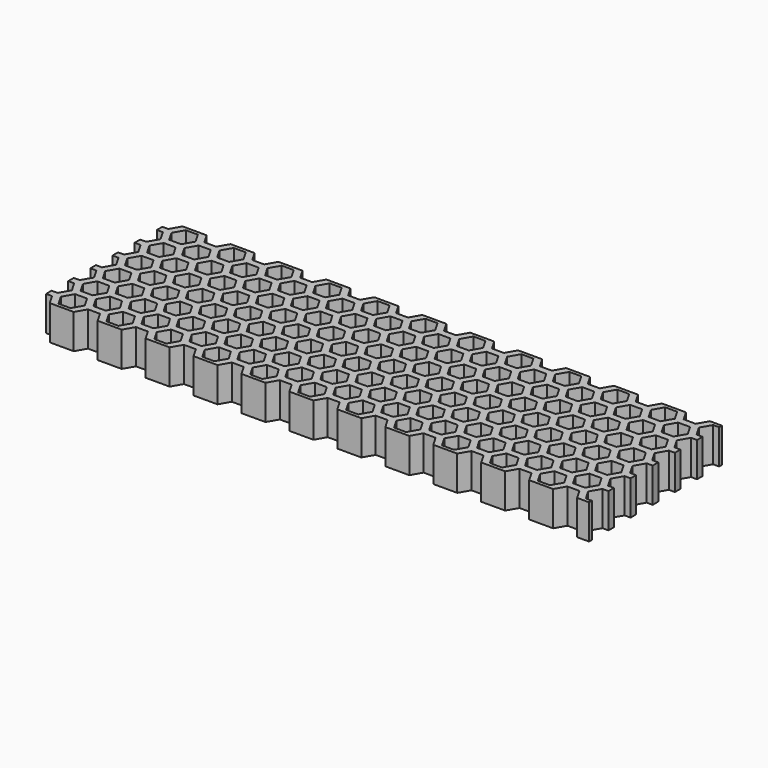
from build123d import *

# Parameters (mm, degrees)
F0_W     = 461.377629
F0_H     = 145
F1_DEPTH = 25
F3_DEPTH = 25


with BuildPart() as f1:
    # F0 (on Top) → F1 (new body)
    with BuildSketch(Plane.XY):
        with Locations((239.03143, 60)):
            Rectangle(F0_W, F0_H)
        Polygon((30.309873, -7.5), (25.979746, 0), (30.309873, 7.5), (38.970127, 7.5), (43.300254, 0), (38.970127, -7.5), align=None, mode=Mode.SUBTRACT)
        Polygon((64.949873, -7.5), (60.619746, 0), (64.949873, 7.5), (73.610127, 7.5), (77.940254, 0), (73.610127, -7.5), align=None, mode=Mode.SUBTRACT)
        Polygon((99.589873, -7.5), (95.259746, 0), (99.589873, 7.5), (108.250127, 7.5), (112.580254, 0), (108.250127, -7.5), align=None, mode=Mode.SUBTRACT)
        Polygon((47.630382, 17.5), (56.290636, 17.5), (60.620763, 10), (56.290636, 2.5), (47.630382, 2.5), (43.300255, 10), align=None, mode=Mode.SUBTRACT)
        Polygon((25.980255, 20), (30.310382, 27.5), (38.970636, 27.5), (43.300763, 20), (38.970636, 12.5), (30.310382, 12.5), align=None, mode=Mode.SUBTRACT)
        Polygon((82.270382, 17.5), (90.930636, 17.5), (95.260763, 10), (90.930636, 2.5), (82.270382, 2.5), (77.940255, 10), align=None, mode=Mode.SUBTRACT)
        Polygon((116.910382, 17.5), (125.570636, 17.5), (129.900763, 10), (125.570636, 2.5), (116.910382, 2.5), (112.580255, 10), align=None, mode=Mode.SUBTRACT)
        Polygon((73.610636, 27.5), (77.940763, 20), (73.610636, 12.5), (64.950382, 12.5), (60.620255, 20), (64.950382, 27.5), align=None, mode=Mode.SUBTRACT)
        Polygon((108.250636, 27.5), (112.580763, 20), (108.250636, 12.5), (99.590382, 12.5), (95.260255, 20), (99.590382, 27.5), align=None, mode=Mode.SUBTRACT)
        Polygon((134.229873, -7.5), (129.899746, 0), (134.229873, 7.5), (142.890127, 7.5), (147.220254, 0), (142.890127, -7.5), align=None, mode=Mode.SUBTRACT)
        Polygon((168.869873, -7.5), (164.539746, 0), (168.869873, 7.5), (177.530127, 7.5), (181.860254, 0), (177.530127, -7.5), align=None, mode=Mode.SUBTRACT)
        Polygon((203.509873, -7.5), (199.179746, 0), (203.509873, 7.5), (212.170127, 7.5), (216.500254, 0), (212.170127, -7.5), align=None, mode=Mode.SUBTRACT)
        Polygon((151.550382, 17.5), (160.210636, 17.5), (164.540763, 10), (160.210636, 2.5), (151.550382, 2.5), (147.220255, 10), align=None, mode=Mode.SUBTRACT)
        Polygon((142.890636, 27.5), (147.220763, 20), (142.890636, 12.5), (134.230382, 12.5), (129.900255, 20), (134.230382, 27.5), align=None, mode=Mode.SUBTRACT)
        Polygon((177.530636, 27.5), (181.860763, 20), (177.530636, 12.5), (168.870382, 12.5), (164.540255, 20), (168.870382, 27.5), align=None, mode=Mode.SUBTRACT)
        Polygon((186.190382, 17.5), (194.850636, 17.5), (199.180763, 10), (194.850636, 2.5), (186.190382, 2.5), (181.860255, 10), align=None, mode=Mode.SUBTRACT)
        Polygon((220.830382, 17.5), (229.490636, 17.5), (233.820763, 10), (229.490636, 2.5), (220.830382, 2.5), (216.500255, 10), align=None, mode=Mode.SUBTRACT)
        Polygon((212.170636, 27.5), (216.500763, 20), (212.170636, 12.5), (203.510382, 12.5), (199.180255, 20), (203.510382, 27.5), align=None, mode=Mode.SUBTRACT)
        Polygon((47.630382, 22.5), (43.300255, 30), (47.630382, 37.5), (56.290636, 37.5), (60.620763, 30), (56.290636, 22.5), align=None, mode=Mode.SUBTRACT)
        Polygon((30.309873, 32.5), (25.979746, 40), (30.309873, 47.5), (38.970127, 47.5), (43.300254, 40), (38.970127, 32.5), align=None, mode=Mode.SUBTRACT)
        Polygon((82.270382, 22.5), (77.940255, 30), (82.270382, 37.5), (90.930636, 37.5), (95.260763, 30), (90.930636, 22.5), align=None, mode=Mode.SUBTRACT)
        Polygon((116.910382, 22.5), (112.580255, 30), (116.910382, 37.5), (125.570636, 37.5), (129.900763, 30), (125.570636, 22.5), align=None, mode=Mode.SUBTRACT)
        Polygon((64.949873, 32.5), (60.619746, 40), (64.949873, 47.5), (73.610127, 47.5), (77.940254, 40), (73.610127, 32.5), align=None, mode=Mode.SUBTRACT)
        Polygon((99.589873, 32.5), (95.259746, 40), (99.589873, 47.5), (108.250127, 47.5), (112.580254, 40), (108.250127, 32.5), align=None, mode=Mode.SUBTRACT)
        Polygon((47.630382, 57.5), (56.290636, 57.5), (60.620763, 50), (56.290636, 42.5), (47.630382, 42.5), (43.300255, 50), align=None, mode=Mode.SUBTRACT)
        Polygon((82.270382, 57.5), (90.930636, 57.5), (95.260763, 50), (90.930636, 42.5), (82.270382, 42.5), (77.940255, 50), align=None, mode=Mode.SUBTRACT)
        Polygon((116.910382, 57.5), (125.570636, 57.5), (129.900763, 50), (125.570636, 42.5), (116.910382, 42.5), (112.580255, 50), align=None, mode=Mode.SUBTRACT)
        Polygon((151.550382, 22.5), (147.220255, 30), (151.550382, 37.5), (160.210636, 37.5), (164.540763, 30), (160.210636, 22.5), align=None, mode=Mode.SUBTRACT)
        Polygon((134.229873, 32.5), (129.899746, 40), (134.229873, 47.5), (142.890127, 47.5), (147.220254, 40), (142.890127, 32.5), align=None, mode=Mode.SUBTRACT)
        Polygon((168.869873, 32.5), (164.539746, 40), (168.869873, 47.5), (177.530127, 47.5), (181.860254, 40), (177.530127, 32.5), align=None, mode=Mode.SUBTRACT)
        Polygon((186.190382, 22.5), (181.860255, 30), (186.190382, 37.5), (194.850636, 37.5), (199.180763, 30), (194.850636, 22.5), align=None, mode=Mode.SUBTRACT)
        Polygon((220.830382, 22.5), (216.500255, 30), (220.830382, 37.5), (229.490636, 37.5), (233.820763, 30), (229.490636, 22.5), align=None, mode=Mode.SUBTRACT)
        Polygon((203.509873, 32.5), (199.179746, 40), (203.509873, 47.5), (212.170127, 47.5), (216.500254, 40), (212.170127, 32.5), align=None, mode=Mode.SUBTRACT)
        Polygon((151.550382, 57.5), (160.210636, 57.5), (164.540763, 50), (160.210636, 42.5), (151.550382, 42.5), (147.220255, 50), align=None, mode=Mode.SUBTRACT)
        Polygon((186.190382, 57.5), (194.850636, 57.5), (199.180763, 50), (194.850636, 42.5), (186.190382, 42.5), (181.860255, 50), align=None, mode=Mode.SUBTRACT)
        Polygon((220.830382, 57.5), (229.490636, 57.5), (233.820763, 50), (229.490636, 42.5), (220.830382, 42.5), (216.500255, 50), align=None, mode=Mode.SUBTRACT)
        Polygon((238.149873, -7.5), (233.819746, 0), (238.149873, 7.5), (246.810127, 7.5), (251.140254, 0), (246.810127, -7.5), align=None, mode=Mode.SUBTRACT)
        Polygon((272.789873, -7.5), (268.459746, 0), (272.789873, 7.5), (281.450127, 7.5), (285.780254, 0), (281.450127, -7.5), align=None, mode=Mode.SUBTRACT)
        Polygon((307.429873, -7.5), (303.099746, 0), (307.429873, 7.5), (316.090127, 7.5), (320.420254, 0), (316.090127, -7.5), align=None, mode=Mode.SUBTRACT)
        Polygon((342.069873, -7.5), (337.739746, 0), (342.069873, 7.5), (350.730127, 7.5), (355.060254, 0), (350.730127, -7.5), align=None, mode=Mode.SUBTRACT)
        Polygon((255.470382, 17.5), (264.130636, 17.5), (268.460763, 10), (264.130636, 2.5), (255.470382, 2.5), (251.140255, 10), align=None, mode=Mode.SUBTRACT)
        Polygon((290.110382, 17.5), (298.770636, 17.5), (303.100763, 10), (298.770636, 2.5), (290.110382, 2.5), (285.780255, 10), align=None, mode=Mode.SUBTRACT)
        Polygon((246.810636, 27.5), (251.140763, 20), (246.810636, 12.5), (238.150382, 12.5), (233.820255, 20), (238.150382, 27.5), align=None, mode=Mode.SUBTRACT)
        Polygon((281.450636, 27.5), (285.780763, 20), (281.450636, 12.5), (272.790382, 12.5), (268.460255, 20), (272.790382, 27.5), align=None, mode=Mode.SUBTRACT)
        Polygon((324.750382, 17.5), (333.410636, 17.5), (337.740763, 10), (333.410636, 2.5), (324.750382, 2.5), (320.420255, 10), align=None, mode=Mode.SUBTRACT)
        Polygon((316.090636, 27.5), (320.420763, 20), (316.090636, 12.5), (307.430382, 12.5), (303.100255, 20), (307.430382, 27.5), align=None, mode=Mode.SUBTRACT)
        Polygon((350.730636, 27.5), (355.060763, 20), (350.730636, 12.5), (342.070382, 12.5), (337.740255, 20), (342.070382, 27.5), align=None, mode=Mode.SUBTRACT)
        Polygon((376.709873, -7.5), (372.379746, 0), (376.709873, 7.5), (385.370127, 7.5), (389.700254, 0), (385.370127, -7.5), align=None, mode=Mode.SUBTRACT)
        Polygon((411.349873, 7.5), (420.010127, 7.5), (424.340254, 0), (420.010127, -7.5), (411.349873, -7.5), (407.019746, 0), align=None, mode=Mode.SUBTRACT)
        Polygon((359.390382, 17.5), (368.050636, 17.5), (372.380763, 10), (368.050636, 2.5), (359.390382, 2.5), (355.060255, 10), align=None, mode=Mode.SUBTRACT)
        Polygon((394.030382, 17.5), (402.690636, 17.5), (407.020763, 10), (402.690636, 2.5), (394.030382, 2.5), (389.700255, 10), align=None, mode=Mode.SUBTRACT)
        Polygon((385.370636, 27.5), (389.700763, 20), (385.370636, 12.5), (376.710382, 12.5), (372.380255, 20), (376.710382, 27.5), align=None, mode=Mode.SUBTRACT)
        Polygon((437.330636, 17.5), (441.660763, 10), (437.330636, 2.5), (428.670382, 2.5), (424.340255, 10), (428.670382, 17.5), align=None, mode=Mode.SUBTRACT)
        Polygon((424.340763, 20), (420.010636, 12.5), (411.350382, 12.5), (407.020255, 20), (411.350382, 27.5), (420.010636, 27.5), align=None, mode=Mode.SUBTRACT)
        Polygon((255.470382, 22.5), (251.140255, 30), (255.470382, 37.5), (264.130636, 37.5), (268.460763, 30), (264.130636, 22.5), align=None, mode=Mode.SUBTRACT)
        Polygon((290.110382, 22.5), (285.780255, 30), (290.110382, 37.5), (298.770636, 37.5), (303.100763, 30), (298.770636, 22.5), align=None, mode=Mode.SUBTRACT)
        Polygon((238.149873, 32.5), (233.819746, 40), (238.149873, 47.5), (246.810127, 47.5), (251.140254, 40), (246.810127, 32.5), align=None, mode=Mode.SUBTRACT)
        Polygon((272.789873, 32.5), (268.459746, 40), (272.789873, 47.5), (281.450127, 47.5), (285.780254, 40), (281.450127, 32.5), align=None, mode=Mode.SUBTRACT)
        Polygon((324.750382, 22.5), (320.420255, 30), (324.750382, 37.5), (333.410636, 37.5), (337.740763, 30), (333.410636, 22.5), align=None, mode=Mode.SUBTRACT)
        Polygon((307.429873, 32.5), (303.099746, 40), (307.429873, 47.5), (316.090127, 47.5), (320.420254, 40), (316.090127, 32.5), align=None, mode=Mode.SUBTRACT)
        Polygon((342.069873, 32.5), (337.739746, 40), (342.069873, 47.5), (350.730127, 47.5), (355.060254, 40), (350.730127, 32.5), align=None, mode=Mode.SUBTRACT)
        Polygon((255.470382, 57.5), (264.130636, 57.5), (268.460763, 50), (264.130636, 42.5), (255.470382, 42.5), (251.140255, 50), align=None, mode=Mode.SUBTRACT)
        Polygon((290.110382, 57.5), (298.770636, 57.5), (303.100763, 50), (298.770636, 42.5), (290.110382, 42.5), (285.780255, 50), align=None, mode=Mode.SUBTRACT)
        Polygon((324.750382, 57.5), (333.410636, 57.5), (337.740763, 50), (333.410636, 42.5), (324.750382, 42.5), (320.420255, 50), align=None, mode=Mode.SUBTRACT)
        Polygon((359.390382, 22.5), (355.060255, 30), (359.390382, 37.5), (368.050636, 37.5), (372.380763, 30), (368.050636, 22.5), align=None, mode=Mode.SUBTRACT)
        Polygon((394.030382, 22.5), (389.700255, 30), (394.030382, 37.5), (402.690636, 37.5), (407.020763, 30), (402.690636, 22.5), align=None, mode=Mode.SUBTRACT)
        Polygon((376.709873, 32.5), (372.379746, 40), (376.709873, 47.5), (385.370127, 47.5), (389.700254, 40), (385.370127, 32.5), align=None, mode=Mode.SUBTRACT)
        Polygon((441.660763, 30), (437.330636, 22.5), (428.670382, 22.5), (424.340255, 30), (428.670382, 37.5), (437.330636, 37.5), align=None, mode=Mode.SUBTRACT)
        Polygon((424.340254, 40), (420.010127, 32.5), (411.349873, 32.5), (407.019746, 40), (411.349873, 47.5), (420.010127, 47.5), align=None, mode=Mode.SUBTRACT)
        Polygon((359.390382, 57.5), (368.050636, 57.5), (372.380763, 50), (368.050636, 42.5), (359.390382, 42.5), (355.060255, 50), align=None, mode=Mode.SUBTRACT)
        Polygon((394.030382, 57.5), (402.690636, 57.5), (407.020763, 50), (402.690636, 42.5), (394.030382, 42.5), (389.700255, 50), align=None, mode=Mode.SUBTRACT)
        Polygon((428.670382, 57.5), (437.330636, 57.5), (441.660763, 50), (437.330636, 42.5), (428.670382, 42.5), (424.340255, 50), align=None, mode=Mode.SUBTRACT)
        Polygon((38.970636, 67.5), (43.300763, 60), (38.970636, 52.5), (30.310382, 52.5), (25.980255, 60), (30.310382, 67.5), align=None, mode=Mode.SUBTRACT)
        Polygon((47.630382, 62.5), (43.300255, 70), (47.630382, 77.5), (56.290636, 77.5), (60.620763, 70), (56.290636, 62.5), align=None, mode=Mode.SUBTRACT)
        Polygon((73.610636, 67.5), (77.940763, 60), (73.610636, 52.5), (64.950382, 52.5), (60.620255, 60), (64.950382, 67.5), align=None, mode=Mode.SUBTRACT)
        Polygon((108.250636, 67.5), (112.580763, 60), (108.250636, 52.5), (99.590382, 52.5), (95.260255, 60), (99.590382, 67.5), align=None, mode=Mode.SUBTRACT)
        Polygon((82.270382, 62.5), (77.940255, 70), (82.270382, 77.5), (90.930636, 77.5), (95.260763, 70), (90.930636, 62.5), align=None, mode=Mode.SUBTRACT)
        Polygon((116.910382, 62.5), (112.580255, 70), (116.910382, 77.5), (125.570636, 77.5), (129.900763, 70), (125.570636, 62.5), align=None, mode=Mode.SUBTRACT)
        Polygon((30.309873, 72.5), (25.979746, 80), (30.309873, 87.5), (38.970127, 87.5), (43.300254, 80), (38.970127, 72.5), align=None, mode=Mode.SUBTRACT)
        Polygon((47.630382, 97.5), (56.290636, 97.5), (60.620763, 90), (56.290636, 82.5), (47.630382, 82.5), (43.300255, 90), align=None, mode=Mode.SUBTRACT)
        Polygon((64.949873, 72.5), (60.619746, 80), (64.949873, 87.5), (73.610127, 87.5), (77.940254, 80), (73.610127, 72.5), align=None, mode=Mode.SUBTRACT)
        Polygon((99.589873, 72.5), (95.259746, 80), (99.589873, 87.5), (108.250127, 87.5), (112.580254, 80), (108.250127, 72.5), align=None, mode=Mode.SUBTRACT)
        Polygon((82.270382, 97.5), (90.930636, 97.5), (95.260763, 90), (90.930636, 82.5), (82.270382, 82.5), (77.940255, 90), align=None, mode=Mode.SUBTRACT)
        Polygon((116.910382, 97.5), (125.570636, 97.5), (129.900763, 90), (125.570636, 82.5), (116.910382, 82.5), (112.580255, 90), align=None, mode=Mode.SUBTRACT)
        Polygon((142.890636, 67.5), (147.220763, 60), (142.890636, 52.5), (134.230382, 52.5), (129.900255, 60), (134.230382, 67.5), align=None, mode=Mode.SUBTRACT)
        Polygon((177.530636, 67.5), (181.860763, 60), (177.530636, 52.5), (168.870382, 52.5), (164.540255, 60), (168.870382, 67.5), align=None, mode=Mode.SUBTRACT)
        Polygon((151.550382, 62.5), (147.220255, 70), (151.550382, 77.5), (160.210636, 77.5), (164.540763, 70), (160.210636, 62.5), align=None, mode=Mode.SUBTRACT)
        Polygon((212.170636, 67.5), (216.500763, 60), (212.170636, 52.5), (203.510382, 52.5), (199.180255, 60), (203.510382, 67.5), align=None, mode=Mode.SUBTRACT)
        Polygon((186.190382, 62.5), (181.860255, 70), (186.190382, 77.5), (194.850636, 77.5), (199.180763, 70), (194.850636, 62.5), align=None, mode=Mode.SUBTRACT)
        Polygon((220.830382, 62.5), (216.500255, 70), (220.830382, 77.5), (229.490636, 77.5), (233.820763, 70), (229.490636, 62.5), align=None, mode=Mode.SUBTRACT)
        Polygon((134.229873, 72.5), (129.899746, 80), (134.229873, 87.5), (142.890127, 87.5), (147.220254, 80), (142.890127, 72.5), align=None, mode=Mode.SUBTRACT)
        Polygon((168.869873, 72.5), (164.539746, 80), (168.869873, 87.5), (177.530127, 87.5), (181.860254, 80), (177.530127, 72.5), align=None, mode=Mode.SUBTRACT)
        Polygon((151.550382, 97.5), (160.210636, 97.5), (164.540763, 90), (160.210636, 82.5), (151.550382, 82.5), (147.220255, 90), align=None, mode=Mode.SUBTRACT)
        Polygon((203.509873, 72.5), (199.179746, 80), (203.509873, 87.5), (212.170127, 87.5), (216.500254, 80), (212.170127, 72.5), align=None, mode=Mode.SUBTRACT)
        Polygon((186.190382, 97.5), (194.850636, 97.5), (199.180763, 90), (194.850636, 82.5), (186.190382, 82.5), (181.860255, 90), align=None, mode=Mode.SUBTRACT)
        Polygon((220.830382, 97.5), (229.490636, 97.5), (233.820763, 90), (229.490636, 82.5), (220.830382, 82.5), (216.500255, 90), align=None, mode=Mode.SUBTRACT)
        Polygon((38.970636, 107.5), (43.300763, 100), (38.970636, 92.5), (30.310382, 92.5), (25.980255, 100), (30.310382, 107.5), align=None, mode=Mode.SUBTRACT)
        Polygon((47.630382, 102.5), (43.300255, 110), (47.630382, 117.5), (56.290636, 117.5), (60.620763, 110), (56.290636, 102.5), align=None, mode=Mode.SUBTRACT)
        Polygon((73.610636, 107.5), (77.940763, 100), (73.610636, 92.5), (64.950382, 92.5), (60.620255, 100), (64.950382, 107.5), align=None, mode=Mode.SUBTRACT)
        Polygon((108.250636, 107.5), (112.580763, 100), (108.250636, 92.5), (99.590382, 92.5), (95.260255, 100), (99.590382, 107.5), align=None, mode=Mode.SUBTRACT)
        Polygon((82.270382, 102.5), (77.940255, 110), (82.270382, 117.5), (90.930636, 117.5), (95.260763, 110), (90.930636, 102.5), align=None, mode=Mode.SUBTRACT)
        Polygon((116.910382, 102.5), (112.580255, 110), (116.910382, 117.5), (125.570636, 117.5), (129.900763, 110), (125.570636, 102.5), align=None, mode=Mode.SUBTRACT)
        Polygon((30.309873, 112.5), (25.979746, 120), (30.309873, 127.5), (38.970127, 127.5), (43.300254, 120), (38.970127, 112.5), align=None, mode=Mode.SUBTRACT)
        Polygon((64.949873, 112.5), (60.619746, 120), (64.949873, 127.5), (73.610127, 127.5), (77.940254, 120), (73.610127, 112.5), align=None, mode=Mode.SUBTRACT)
        Polygon((99.589873, 112.5), (95.259746, 120), (99.589873, 127.5), (108.250127, 127.5), (112.580254, 120), (108.250127, 112.5), align=None, mode=Mode.SUBTRACT)
        Polygon((142.890636, 107.5), (147.220763, 100), (142.890636, 92.5), (134.230382, 92.5), (129.900255, 100), (134.230382, 107.5), align=None, mode=Mode.SUBTRACT)
        Polygon((177.530636, 107.5), (181.860763, 100), (177.530636, 92.5), (168.870382, 92.5), (164.540255, 100), (168.870382, 107.5), align=None, mode=Mode.SUBTRACT)
        Polygon((151.550382, 102.5), (147.220255, 110), (151.550382, 117.5), (160.210636, 117.5), (164.540763, 110), (160.210636, 102.5), align=None, mode=Mode.SUBTRACT)
        Polygon((212.170636, 107.5), (216.500763, 100), (212.170636, 92.5), (203.510382, 92.5), (199.180255, 100), (203.510382, 107.5), align=None, mode=Mode.SUBTRACT)
        Polygon((186.190382, 102.5), (181.860255, 110), (186.190382, 117.5), (194.850636, 117.5), (199.180763, 110), (194.850636, 102.5), align=None, mode=Mode.SUBTRACT)
        Polygon((220.830382, 102.5), (216.500255, 110), (220.830382, 117.5), (229.490636, 117.5), (233.820763, 110), (229.490636, 102.5), align=None, mode=Mode.SUBTRACT)
        Polygon((134.229873, 112.5), (129.899746, 120), (134.229873, 127.5), (142.890127, 127.5), (147.220254, 120), (142.890127, 112.5), align=None, mode=Mode.SUBTRACT)
        Polygon((168.869873, 112.5), (164.539746, 120), (168.869873, 127.5), (177.530127, 127.5), (181.860254, 120), (177.530127, 112.5), align=None, mode=Mode.SUBTRACT)
        Polygon((203.509873, 112.5), (199.179746, 120), (203.509873, 127.5), (212.170127, 127.5), (216.500254, 120), (212.170127, 112.5), align=None, mode=Mode.SUBTRACT)
        Polygon((246.810636, 67.5), (251.140763, 60), (246.810636, 52.5), (238.150382, 52.5), (233.820255, 60), (238.150382, 67.5), align=None, mode=Mode.SUBTRACT)
        Polygon((281.450636, 67.5), (285.780763, 60), (281.450636, 52.5), (272.790382, 52.5), (268.460255, 60), (272.790382, 67.5), align=None, mode=Mode.SUBTRACT)
        Polygon((255.470382, 62.5), (251.140255, 70), (255.470382, 77.5), (264.130636, 77.5), (268.460763, 70), (264.130636, 62.5), align=None, mode=Mode.SUBTRACT)
        Polygon((290.110382, 62.5), (285.780255, 70), (290.110382, 77.5), (298.770636, 77.5), (303.100763, 70), (298.770636, 62.5), align=None, mode=Mode.SUBTRACT)
        Polygon((316.090636, 67.5), (320.420763, 60), (316.090636, 52.5), (307.430382, 52.5), (303.100255, 60), (307.430382, 67.5), align=None, mode=Mode.SUBTRACT)
        Polygon((350.730636, 67.5), (355.060763, 60), (350.730636, 52.5), (342.070382, 52.5), (337.740255, 60), (342.070382, 67.5), align=None, mode=Mode.SUBTRACT)
        Polygon((324.750382, 62.5), (320.420255, 70), (324.750382, 77.5), (333.410636, 77.5), (337.740763, 70), (333.410636, 62.5), align=None, mode=Mode.SUBTRACT)
        Polygon((238.149873, 72.5), (233.819746, 80), (238.149873, 87.5), (246.810127, 87.5), (251.140254, 80), (246.810127, 72.5), align=None, mode=Mode.SUBTRACT)
        Polygon((272.789873, 72.5), (268.459746, 80), (272.789873, 87.5), (281.450127, 87.5), (285.780254, 80), (281.450127, 72.5), align=None, mode=Mode.SUBTRACT)
        Polygon((255.470382, 97.5), (264.130636, 97.5), (268.460763, 90), (264.130636, 82.5), (255.470382, 82.5), (251.140255, 90), align=None, mode=Mode.SUBTRACT)
        Polygon((290.110382, 97.5), (298.770636, 97.5), (303.100763, 90), (298.770636, 82.5), (290.110382, 82.5), (285.780255, 90), align=None, mode=Mode.SUBTRACT)
        Polygon((307.429873, 72.5), (303.099746, 80), (307.429873, 87.5), (316.090127, 87.5), (320.420254, 80), (316.090127, 72.5), align=None, mode=Mode.SUBTRACT)
        Polygon((342.069873, 72.5), (337.739746, 80), (342.069873, 87.5), (350.730127, 87.5), (355.060254, 80), (350.730127, 72.5), align=None, mode=Mode.SUBTRACT)
        Polygon((324.750382, 97.5), (333.410636, 97.5), (337.740763, 90), (333.410636, 82.5), (324.750382, 82.5), (320.420255, 90), align=None, mode=Mode.SUBTRACT)
        Polygon((385.370636, 67.5), (389.700763, 60), (385.370636, 52.5), (376.710382, 52.5), (372.380255, 60), (376.710382, 67.5), align=None, mode=Mode.SUBTRACT)
        Polygon((359.390382, 62.5), (355.060255, 70), (359.390382, 77.5), (368.050636, 77.5), (372.380763, 70), (368.050636, 62.5), align=None, mode=Mode.SUBTRACT)
        Polygon((394.030382, 62.5), (389.700255, 70), (394.030382, 77.5), (402.690636, 77.5), (407.020763, 70), (402.690636, 62.5), align=None, mode=Mode.SUBTRACT)
        Polygon((420.010636, 52.5), (411.350382, 52.5), (407.020255, 60), (411.350382, 67.5), (420.010636, 67.5), (424.340763, 60), align=None, mode=Mode.SUBTRACT)
        Polygon((441.660763, 70), (437.330636, 62.5), (428.670382, 62.5), (424.340255, 70), (428.670382, 77.5), (437.330636, 77.5), align=None, mode=Mode.SUBTRACT)
        Polygon((376.709873, 72.5), (372.379746, 80), (376.709873, 87.5), (385.370127, 87.5), (389.700254, 80), (385.370127, 72.5), align=None, mode=Mode.SUBTRACT)
        Polygon((359.390382, 97.5), (368.050636, 97.5), (372.380763, 90), (368.050636, 82.5), (359.390382, 82.5), (355.060255, 90), align=None, mode=Mode.SUBTRACT)
        Polygon((394.030382, 97.5), (402.690636, 97.5), (407.020763, 90), (402.690636, 82.5), (394.030382, 82.5), (389.700255, 90), align=None, mode=Mode.SUBTRACT)
        Polygon((424.340254, 80), (420.010127, 72.5), (411.349873, 72.5), (407.019746, 80), (411.349873, 87.5), (420.010127, 87.5), align=None, mode=Mode.SUBTRACT)
        Polygon((424.340255, 90), (428.670382, 97.5), (437.330636, 97.5), (441.660763, 90), (437.330636, 82.5), (428.670382, 82.5), align=None, mode=Mode.SUBTRACT)
        Polygon((246.810636, 107.5), (251.140763, 100), (246.810636, 92.5), (238.150382, 92.5), (233.820255, 100), (238.150382, 107.5), align=None, mode=Mode.SUBTRACT)
        Polygon((281.450636, 107.5), (285.780763, 100), (281.450636, 92.5), (272.790382, 92.5), (268.460255, 100), (272.790382, 107.5), align=None, mode=Mode.SUBTRACT)
        Polygon((255.470382, 102.5), (251.140255, 110), (255.470382, 117.5), (264.130636, 117.5), (268.460763, 110), (264.130636, 102.5), align=None, mode=Mode.SUBTRACT)
        Polygon((290.110382, 102.5), (285.780255, 110), (290.110382, 117.5), (298.770636, 117.5), (303.100763, 110), (298.770636, 102.5), align=None, mode=Mode.SUBTRACT)
        Polygon((316.090636, 107.5), (320.420763, 100), (316.090636, 92.5), (307.430382, 92.5), (303.100255, 100), (307.430382, 107.5), align=None, mode=Mode.SUBTRACT)
        Polygon((350.730636, 107.5), (355.060763, 100), (350.730636, 92.5), (342.070382, 92.5), (337.740255, 100), (342.070382, 107.5), align=None, mode=Mode.SUBTRACT)
        Polygon((324.750382, 102.5), (320.420255, 110), (324.750382, 117.5), (333.410636, 117.5), (337.740763, 110), (333.410636, 102.5), align=None, mode=Mode.SUBTRACT)
        Polygon((238.149873, 112.5), (233.819746, 120), (238.149873, 127.5), (246.810127, 127.5), (251.140254, 120), (246.810127, 112.5), align=None, mode=Mode.SUBTRACT)
        Polygon((272.789873, 112.5), (268.459746, 120), (272.789873, 127.5), (281.450127, 127.5), (285.780254, 120), (281.450127, 112.5), align=None, mode=Mode.SUBTRACT)
        Polygon((307.429873, 112.5), (303.099746, 120), (307.429873, 127.5), (316.090127, 127.5), (320.420254, 120), (316.090127, 112.5), align=None, mode=Mode.SUBTRACT)
        Polygon((342.069873, 112.5), (337.739746, 120), (342.069873, 127.5), (350.730127, 127.5), (355.060254, 120), (350.730127, 112.5), align=None, mode=Mode.SUBTRACT)
        Polygon((385.370636, 107.5), (389.700763, 100), (385.370636, 92.5), (376.710382, 92.5), (372.380255, 100), (376.710382, 107.5), align=None, mode=Mode.SUBTRACT)
        Polygon((359.390382, 102.5), (355.060255, 110), (359.390382, 117.5), (368.050636, 117.5), (372.380763, 110), (368.050636, 102.5), align=None, mode=Mode.SUBTRACT)
        Polygon((394.030382, 102.5), (389.700255, 110), (394.030382, 117.5), (402.690636, 117.5), (407.020763, 110), (402.690636, 102.5), align=None, mode=Mode.SUBTRACT)
        Polygon((411.350382, 92.5), (407.020255, 100), (411.350382, 107.5), (420.010636, 107.5), (424.340763, 100), (420.010636, 92.5), align=None, mode=Mode.SUBTRACT)
        Polygon((437.330636, 117.5), (441.660763, 110), (437.330636, 102.5), (428.670382, 102.5), (424.340255, 110), (428.670382, 117.5), align=None, mode=Mode.SUBTRACT)
        Polygon((376.709873, 112.5), (372.379746, 120), (376.709873, 127.5), (385.370127, 127.5), (389.700254, 120), (385.370127, 112.5), align=None, mode=Mode.SUBTRACT)
        Polygon((424.340254, 120), (420.010127, 112.5), (411.349873, 112.5), (407.019746, 120), (411.349873, 127.5), (420.010127, 127.5), align=None, mode=Mode.SUBTRACT)
    extrude(amount=F1_DEPTH)

    # F2 (on face) → F3 (cut)
    with BuildSketch(Plane.XY.offset(25)):
        Polygon((473.41311, -15.170553), (473.41311, 132.5), (473.41311, 136.819303), (34.64, 136.819303), (4.526651, 136.819303), (4.526651, -16.710088), (34.64, -16.710088), (433.000509, -15.170553), align=None)
        Polygon((433.000509, 120), (433.000509, 117.5), (433.000509, 0), (34.64, 0), (34.64, 120), align=None, mode=Mode.SUBTRACT)
    extrude(amount=-F3_DEPTH, mode=Mode.SUBTRACT)


solid = f1.part
